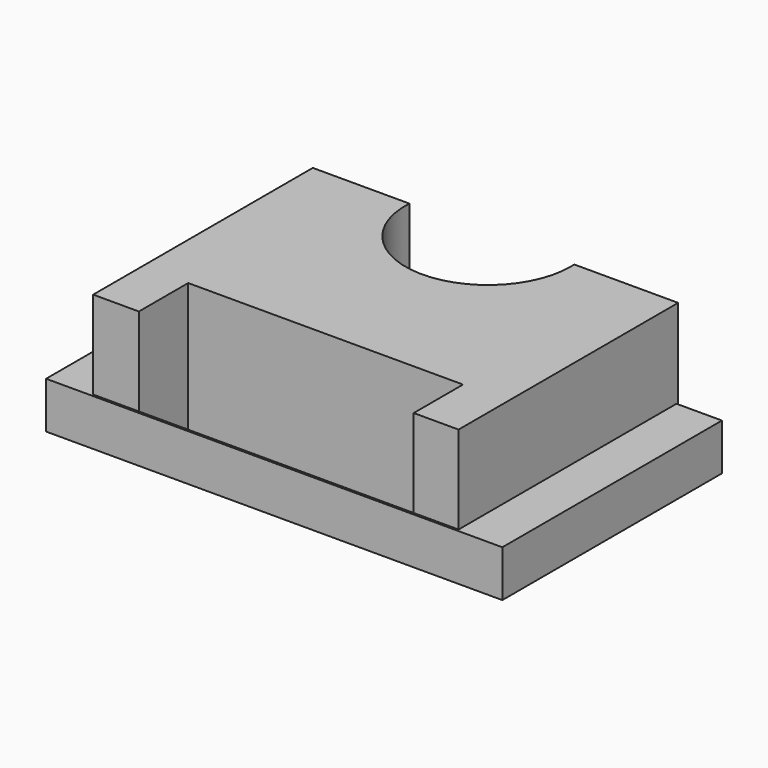
from build123d import *

# Parameters (mm, degrees)
F0_W     = 63.754
F0_H     = 38.354
F1_DEPTH = 6.5024
F2_W     = 51.054
F2_H     = 38.354
F3_DEPTH = 18.796
F4_W     = 38.4032912552
F4_H     = 8.6150002171
F5_DEPTH = 25.4
F7_DEPTH = 18.797


with BuildPart() as f1:
    # F0 (on Top) → F1 (new body)
    with BuildSketch(Plane.XY):
        with Locations((0, -0.0474722673)):
            Rectangle(F0_W, F0_H)
    extrude(amount=F1_DEPTH)

    # F2 (on Top) → F3 (join)
    with BuildSketch(Plane.XY):
        with Locations((0, 0.243213877)):
            Rectangle(F2_W, F2_H)
    extrude(amount=F3_DEPTH)

    # F4 (on face) → F5 (cut)
    with BuildSketch(Plane.XY.offset(18.796)):
        with Locations((0.0579152256, -14.6262860144)):
            Rectangle(F4_W, F4_H)
    extrude(amount=-F5_DEPTH, mode=Mode.SUBTRACT)

    # F6 (on face) → F7 (cut, through all)
    with BuildSketch(Plane.XY.offset(18.796)):
        with BuildLine():
            ThreePointArc((11.0276596023, 18.7562172295), (11.0228780842, 19.0883531968), (11.0085374932, 19.420213877))
            Line((11.0085374932, 19.420213877), (-12.0289784785, 19.420213877))
            ThreePointArc((-12.0289784785, 19.420213877), (-0.8423564599, 7.2231186526), (11.0276596023, 18.7562172295))
        make_face()
    extrude(amount=-F7_DEPTH, mode=Mode.SUBTRACT)


solid = f1.part
